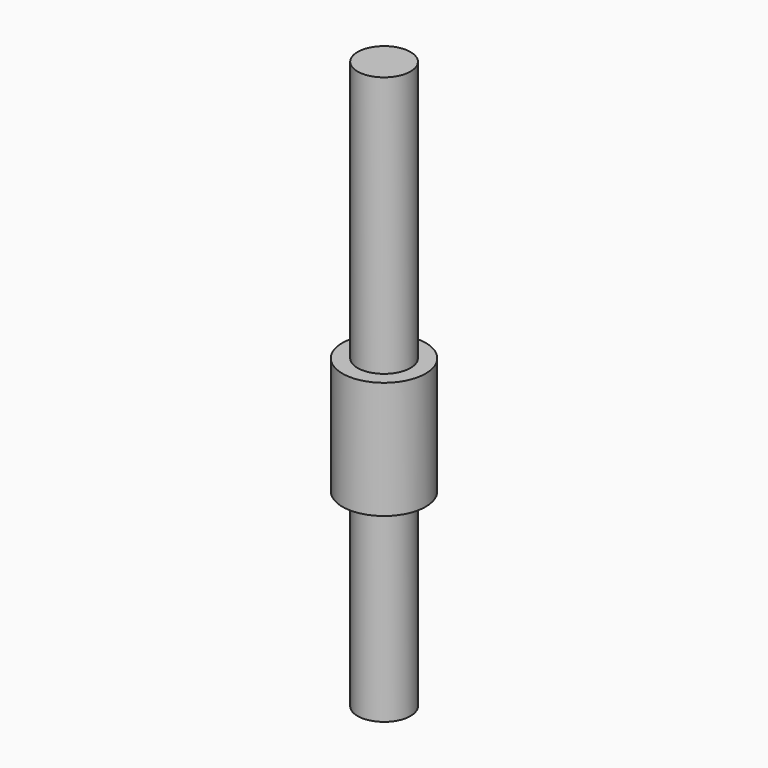
from build123d import *

# Parameters (mm, degrees)
CYLINDER004_R     = 7
CYLINDER004_DEPTH = 150
CYLINDER003_R     = 11
CYLINDER003_DEPTH = 31


with BuildPart() as axe:
    # Cylinder004 → Cylinder004 (new body)
    with BuildSketch(Plane.XY.offset(-50)):
        Circle(CYLINDER004_R)
    extrude(amount=CYLINDER004_DEPTH)


with BuildPart() as ball_slider:
    # Cylinder003 → Cylinder003 (new body)
    with BuildSketch(Plane.XY):
        Circle(CYLINDER003_R)
    extrude(amount=CYLINDER003_DEPTH)

    # Fusion003: union axe
    add(axe.part)


solid = ball_slider.part
